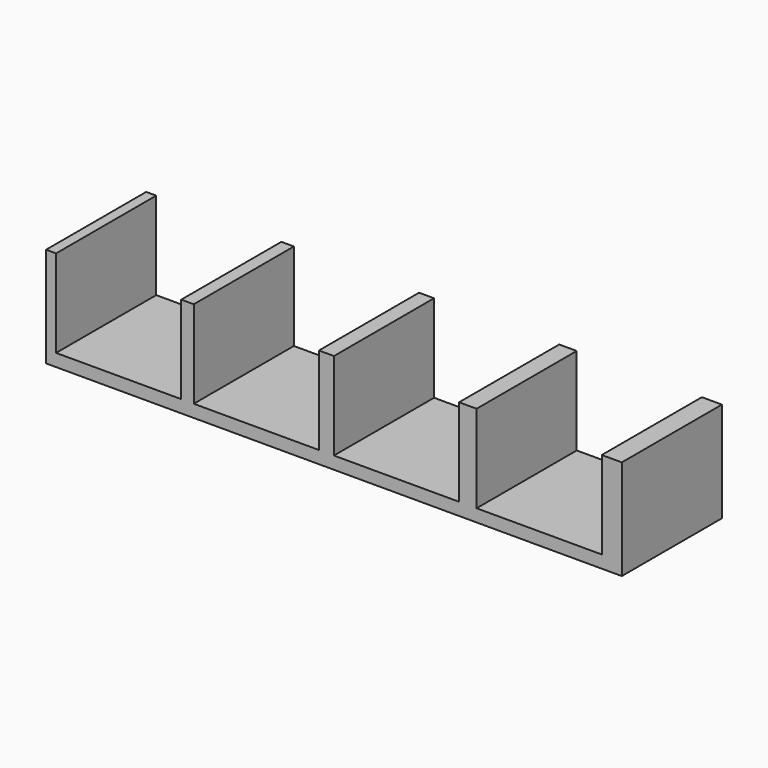
from build123d import *

# Parameters (mm, degrees)
F0_W     = 92
F0_H     = 20
F1_DEPTH = 2
F2_W     = 1.6
F2_H     = 20
F2_W_2   = 2
F2_W_3   = 2.4
F2_W_4   = 2.8
F2_W_5   = 3.2
F3_DEPTH = 14


with BuildPart() as f1:
    # F0 (on Top) → F1 (new body)
    with BuildSketch(Plane.XY):
        with Locations((46, -10)):
            Rectangle(F0_W, F0_H)
    extrude(amount=F1_DEPTH)

    # F2 (on face) → F3 (join)
    with BuildSketch(Plane.XY.offset(2)):
        with Locations((0.8, -10)):
            Rectangle(F2_W, F2_H)
        with Locations((22.6, -10)):
            Rectangle(F2_W_2, F2_H)
        with Locations((44.8, -10)):
            Rectangle(F2_W_3, F2_H)
        with Locations((67.4, -10)):
            Rectangle(F2_W_4, F2_H)
        with Locations((90.4, -10)):
            Rectangle(F2_W_5, F2_H)
    extrude(amount=F3_DEPTH)


solid = f1.part
